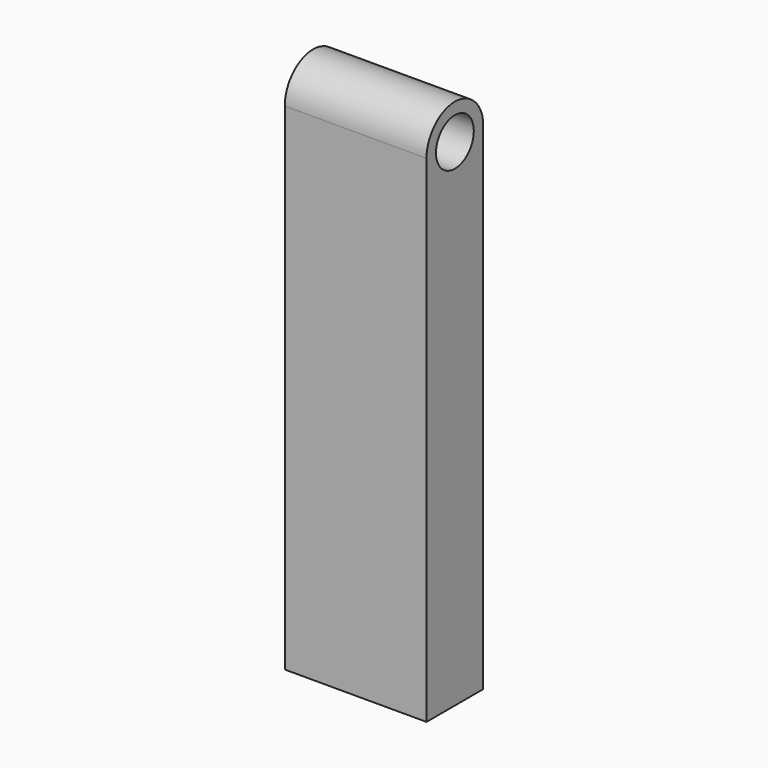
from build123d import *

# Parameters (mm, degrees)
F1_DEPTH = 30
F2_R     = 5
F3_DEPTH = 30.001


with BuildPart() as f1:
    # F0 (on Right) → F1 (new body)
    with BuildSketch(Plane.YZ):
        with BuildLine():
            ThreePointArc((7.5, 52.5), (0, 60), (-7.5, 52.5))
            Line((-7.5, 52.5), (7.5, 52.5))
        make_face()
        with BuildLine():
            ThreePointArc((7.5, 52.5), (0, 45), (-7.5, 52.5))
            Line((-7.5, 52.5), (-7.5, -52.5))
            Line((-7.5, -52.5), (7.5, -52.5))
            Line((7.5, -52.5), (7.5, 52.5))
        make_face()
        with BuildLine():
            Line((7.5, 52.5), (-7.5, 52.5))
            ThreePointArc((-7.5, 52.5), (0, 45), (7.5, 52.5))
        make_face()
    extrude(amount=F1_DEPTH)

    # F2 (on face) → F3 (cut, through all)
    with BuildSketch(Plane.YZ.offset(30)):
        with Locations((0, 52.5)):
            Circle(F2_R)
    extrude(amount=-F3_DEPTH, mode=Mode.SUBTRACT)


solid = f1.part
